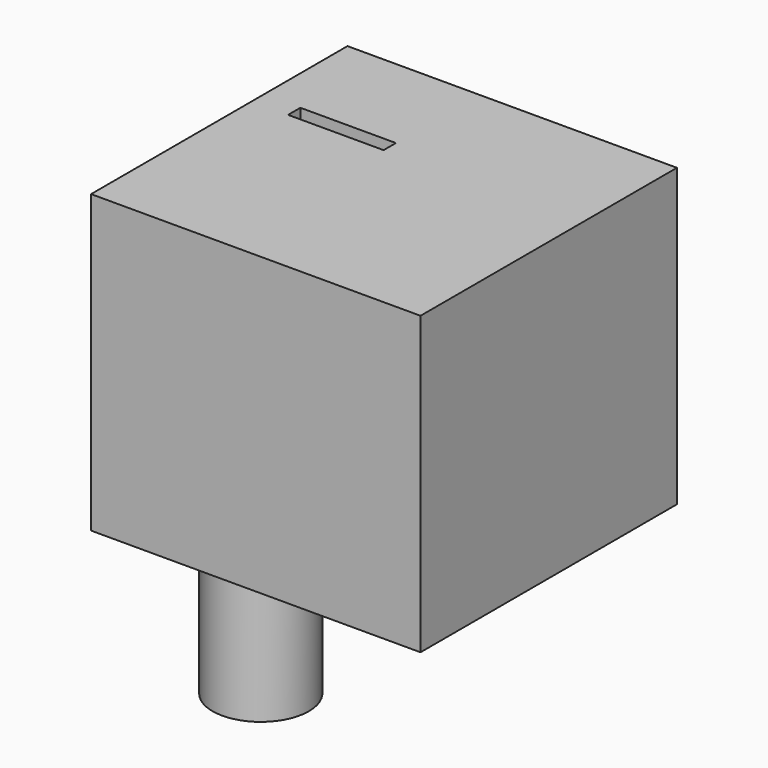
from build123d import *

# Parameters (mm, degrees)
F0_W     = 61.041802
F0_H     = 59.39202
F0_W_2   = 17.697617
F0_H_2   = 2.849616
F1_DEPTH = 54.898709
F2_R     = 8.918431
F3_DEPTH = 24.040826


with BuildPart() as f1:
    # F0 (on Top) → F1 (new body)
    with BuildSketch(Plane.XY):
        with Locations((-21.97203, 18.147565)):
            Rectangle(F0_W, F0_H)
        with Locations((-36.895029, 27.071368)):
            Rectangle(F0_W_2, F0_H_2, mode=Mode.SUBTRACT)
    extrude(amount=F1_DEPTH)

    # F2 (on Top) → F3 (join)
    with BuildSketch(Plane.XY):
        with Locations((-30.295908, 0)):
            Circle(F2_R)
    extrude(amount=-F3_DEPTH)


solid = f1.part
